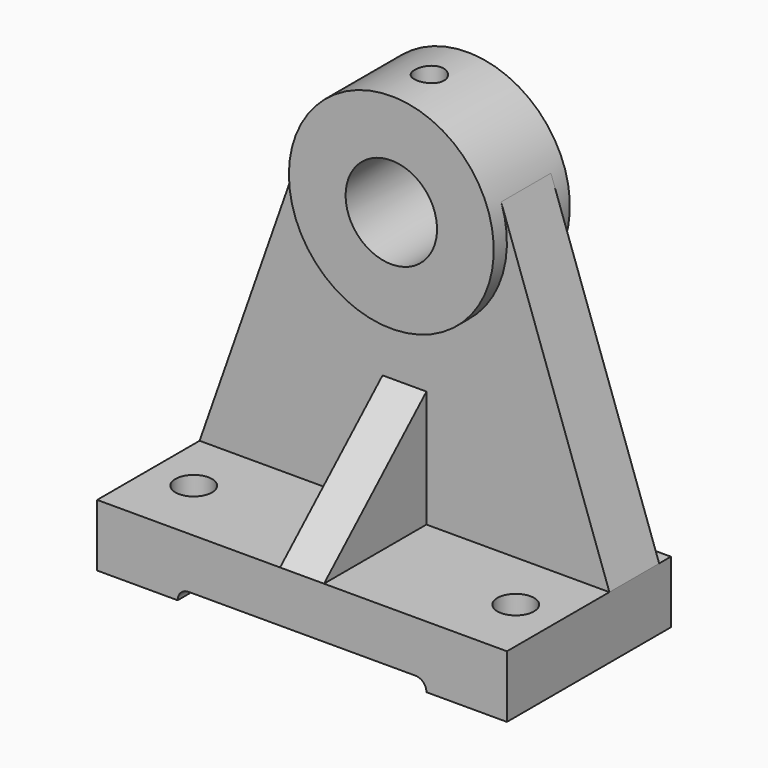
from build123d import *

# Parameters (mm, degrees)
F0_W      = 112
F0_H      = 56
F1_DEPTH  = 17
F3_R      = 12.5
F4_DEPTH  = 17
F6_R      = 28
F7_DEPTH  = 13
F8_DEPTH  = 25
F10_R     = 4
F11_DEPTH = 28.001
F12_R     = 5
F13_DEPTH = 17.001
F16_DEPTH = 6
F18_DEPTH = 56.5010001


with BuildPart() as f1:
    # F0 (on Top) → F1 (new body)
    with BuildSketch(Plane.XY):
        Rectangle(F0_W, F0_H)
    extrude(amount=F1_DEPTH)

    # F3 (on offset) → F4 (join)
    with BuildSketch(Plane(origin=(0, 24, 0), x_dir=(-1, 0, 0), z_dir=(0, 1, 0))):
        with BuildLine():
            Line((-26.4197592234, 101.2734202201), (-56, 17))
            Line((-56, 17), (56, 17))
            Line((56, 17), (26.4197592234, 101.2734202201))
            ThreePointArc((26.4197592234, 101.2734202201), (27.6021127656, 96.7035487531), (28, 92))
            ThreePointArc((28, 92), (-4.7035487531, 64.3978872344), (-26.4197592234, 101.2734202201))
        make_face()
        with BuildLine():
            ThreePointArc((26.4197592234, 101.2734202201), (0, 120), (-26.4197592234, 101.2734202201))
            ThreePointArc((-26.4197592234, 101.2734202201), (-4.7035487531, 64.3978872344), (28, 92))
            ThreePointArc((28, 92), (27.6021127656, 96.7035487531), (26.4197592234, 101.2734202201))
        make_face()
        with Locations((0, 92)):
            Circle(F3_R, mode=Mode.SUBTRACT)
    extrude(amount=-F4_DEPTH)

    # F6 (on offset) → F7 (join, symmetric)
    with BuildSketch(Plane(origin=(0, 15.5, 0), x_dir=(-1, 0, 0), z_dir=(0, 1, 0))):
        with Locations((0, 92)):
            Circle(F6_R)
    extrude(amount=F7_DEPTH, both=True)

    # F3 (on offset) → F8 (cut, symmetric)
    with BuildSketch(Plane(origin=(0, 24, 0), x_dir=(-1, 0, 0), z_dir=(0, 1, 0))):
        with Locations((0, 92)):
            Circle(F3_R)
    extrude(amount=F8_DEPTH, both=True, mode=Mode.SUBTRACT)

    # F10 (on offset) → F11 (cut, through all)
    with BuildSketch(Plane.XY.offset(92)):
        with Locations((0, 15.5)):
            Circle(F10_R)
    extrude(amount=F11_DEPTH, mode=Mode.SUBTRACT)

    # F12 (on face) → F13 (cut, through all)
    with BuildSketch(Plane.XY.offset(17)):
        with Locations((-44, -10)):
            Circle(F12_R)
        with Locations((44, -10)):
            Circle(F12_R)
    extrude(amount=-F13_DEPTH, mode=Mode.SUBTRACT)

    # F15 (on offset) → F16 (join, symmetric)
    with BuildSketch(Plane.YZ):
        Polygon((7, 17), (7, 49), (-28, 17), align=None)
    extrude(amount=F16_DEPTH, both=True)

    # F17 (on face) → F18 (cut, through all)
    with BuildSketch(Plane.XZ.offset(28)):
        with BuildLine():
            Line((31, 3), (-31, 3))
            ThreePointArc((-31, 3), (-34, 0), (-31, -3))
            Line((-31, -3), (31, -3))
            ThreePointArc((31, -3), (34, 0), (31, 3))
        make_face()
    extrude(amount=-F18_DEPTH, mode=Mode.SUBTRACT)


solid = f1.part
